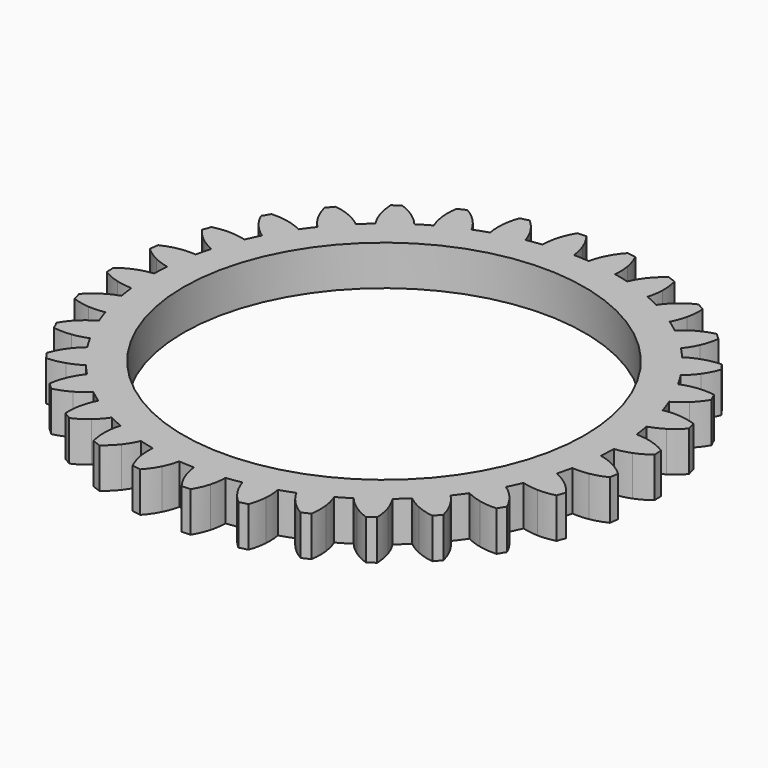
from build123d import *

# Parameters (mm, degrees)
F0_R     = 95
F1_DEPTH = 19
F2_COUNT = 32


with BuildPart() as f1:
    # F0 (on Top) → F1 (new body)
    with BuildSketch(Plane.XY):
        with BuildLine():
            ThreePointArc((-12.587078, 109.574415), (-73.405365, -82.320346), (110.295, 0))
            ThreePointArc((110.295, 0), (78.619357, 77.356213), (1.786297, 110.280534))
            ThreePointArc((1.786297, 110.280534), (-5.411919, 110.162145), (-12.587078, 109.574415))
        make_face()
        Circle(F0_R, mode=Mode.SUBTRACT)
        with BuildLine():
            ThreePointArc((-12.587078, 109.574415), (-5.411919, 110.162145), (1.786297, 110.280534))
            ThreePointArc((1.786297, 110.280534), (1.131339, 114.020542), (0, 117.645))
            ThreePointArc((0, 117.645), (-1.776517, 121.434587), (-4.072974, 124.933626))
            ThreePointArc((-4.072974, 124.933626), (-6.130552, 124.790256), (-8.192275, 124.731258))
            ThreePointArc((-8.192275, 124.731258), (-10.134708, 121.023976), (-11.531226, 117.078507))
            ThreePointArc((-11.531226, 117.078507), (-12.301859, 113.360611), (-12.587078, 109.574415))
        make_face()
    extrude(amount=F1_DEPTH)

    # F2: F1 ×32 about axis
    f2_axis = Axis((0, 0, 0), (0, 0, -1))


with BuildPart() as f1_1:
    add(f1.part)
    for i in range(1, F2_COUNT):
        add(f1.part.rotate(f2_axis, i * 360 / F2_COUNT))


solid = f1_1.part
